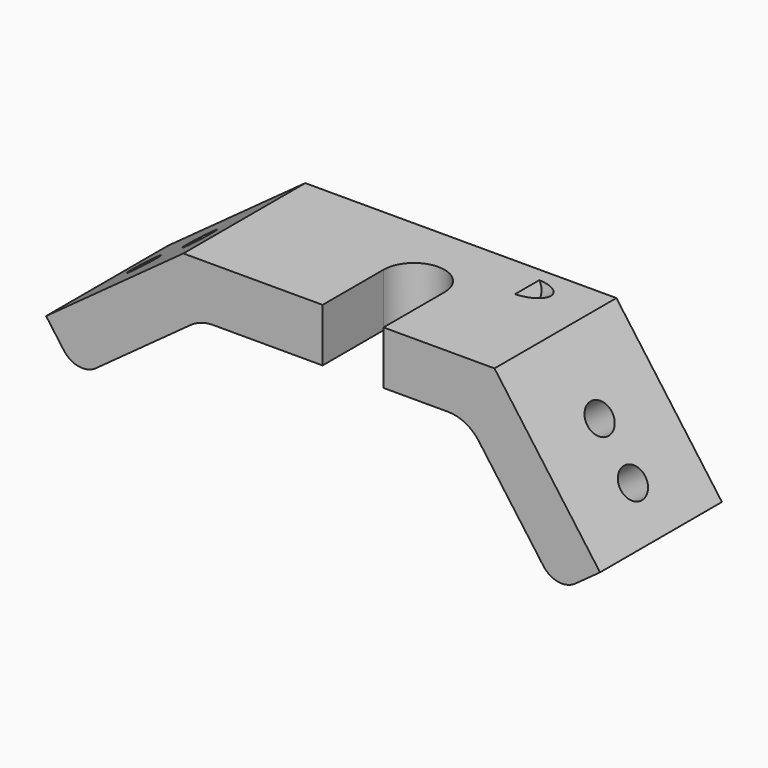
from build123d import *

# Parameters (mm, degrees)
F1_DEPTH      = 10
F1_DEPTH_BACK = 10
F3_D          = 4
F5_D          = 4
F5_DEPTH      = 18.2076214093
F7_D          = 8
F8_R          = 3
F9_R          = 5
F11_D         = 4
F13_DEPTH     = 25


with BuildPart() as f1:
    # F0 (on Front) → F1 (new body, two sides)
    with BuildSketch(Plane.XZ) as f1_sk:
        Polygon((-40.2948366535, -6.0925860852), (-36.1803398875, -11.7557050458), (-20, 0), (15, 0), (26.7557050458, -16.1803398875), (32.4188240065, -12.0658431215), (18.5666781465, 7), (-22.2744378736, 7), align=None)
    extrude(amount=F1_DEPTH)
    extrude(f1_sk.sketch, amount=-F1_DEPTH_BACK)

    # F3 (through all)
    with Locations(Plane(origin=(-6.9098300563, 0, 9.510565163), x_dir=(0.8090169944, 0, 0.5877852523), z_dir=(0.5877852523, 0, -0.8090169944))):
        with Locations((0, -37.8532769899), (0, -24.0082326065), (-30.1803398875, 0), (-21.1803398875, 0)):
            Hole(F3_D / 2)

    # F5 (through all, one way)
    with BuildSketch(Plane(origin=(9.8176274578, 0, 7.1329238722), x_dir=(0, -1, 0), z_dir=(-0.8090169944, 0, -0.5877852523))):
        with Locations((16.0583042515, 0), (-6.1736582538, 0)):
            Circle(F5_D / 2)
    extrude(amount=-F5_DEPTH, mode=Mode.SUBTRACT)

    # F7 (through all)
    with Locations(Plane(origin=(0, 0, 0), x_dir=(1, 0, 0), z_dir=(0, 0, -1))):
        with Locations((0, 0)):
            Hole(F7_D / 2)

    # F8
    f8_edges = [f1.edges().sort_by_distance(p)[0] for p in [
        (-36.18034, 0, -11.755705),
        (26.755705, 0, -16.18034),
    ]]
    fillet(f8_edges, radius=F8_R)

    # F9
    f9_edges = [f1.edges().sort_by_distance(p)[0] for p in [
        (-20, 0, 0),
        (15, 0, 0),
    ]]
    fillet(f9_edges, radius=F9_R)

    # F11 (through all)
    with Locations(Plane(origin=(9.8176274578, 0, 7.1329238722), x_dir=(0, -1, 0), z_dir=(-0.8090169944, 0, -0.5877852523))):
        with Locations((0, -15.1145784184), (0, -22.5539375097)):
            Hole(F11_D / 2)

    # F12 (on face) → F13 (cut)
    with BuildSketch(Plane(origin=(0, 0, 0), x_dir=(1, 0, 0), z_dir=(0, 0, -1))):
        with BuildLine():
            Line((-4, 10), (-4, 0))
            ThreePointArc((-4, 0), (0, 4), (4, 0))
            Line((4, 0), (4, 10))
            Line((4, 10), (-4, 10))
        make_face()
    extrude(amount=-F13_DEPTH, mode=Mode.SUBTRACT)


solid = f1.part
